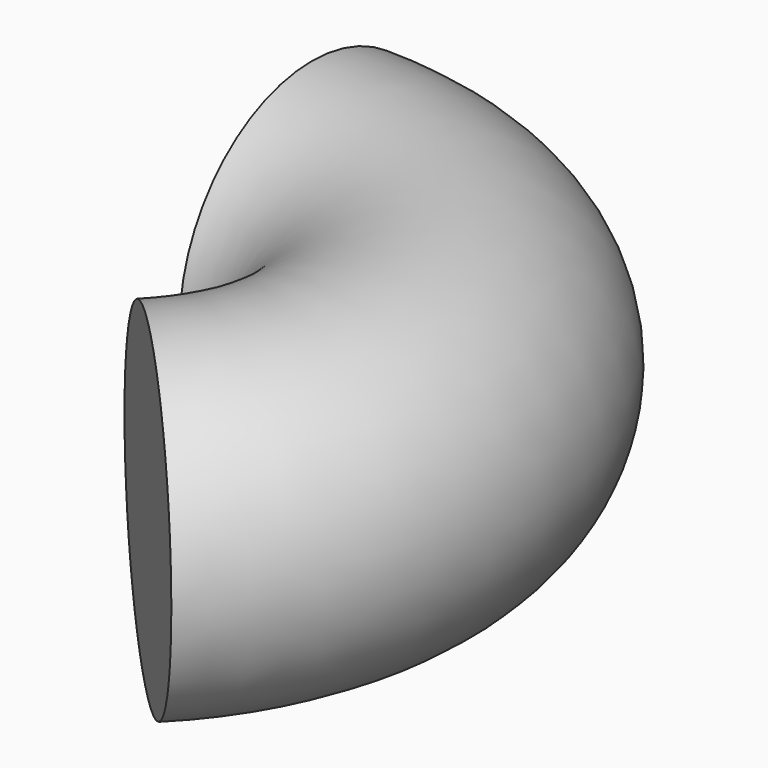
from build123d import *

# Parameters (mm, degrees)
F0_R          = 10
F2_ANGLE_BACK = 90
F2_ANGLE      = 135


with BuildPart() as f2:
    # F0 (on Front) → F2 (revolve)
    with BuildSketch(Plane.XZ, mode=Mode.PRIVATE) as f2_sk:
        Circle(F0_R)
    revolve(f2_sk.sketch.rotate(Axis((-15.0533178821, 0, 0.8708531968), (0, 0, -1)), -F2_ANGLE_BACK), axis=Axis((-15.0533178821, 0, 0.8708531968), (0, 0, -1)), revolution_arc=F2_ANGLE)


solid = f2.part
